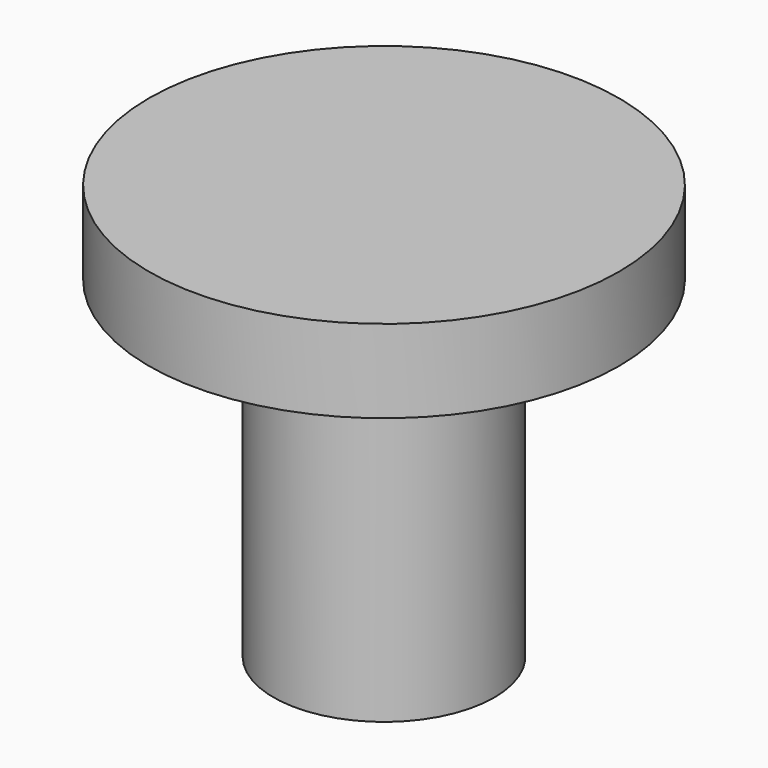
from build123d import *

# Parameters (mm, degrees)
F0_R     = 71.870143
F1_DEPTH = 25.4
F2_R     = 33.770143
F3_DEPTH = 101.6


with BuildPart() as f1:
    # F0 (on Top) → F1 (new body)
    with BuildSketch(Plane.XY):
        Circle(F0_R)
    extrude(amount=F1_DEPTH)


with BuildPart() as f3:
    # F2 (on face) → F3 (new body)
    with BuildSketch(Plane(origin=(0, 0, 0), x_dir=(1, 0, 0), z_dir=(0, 0, -1))):
        Circle(F2_R)
    extrude(amount=F3_DEPTH)


solid = Compound([f1.part, f3.part])
